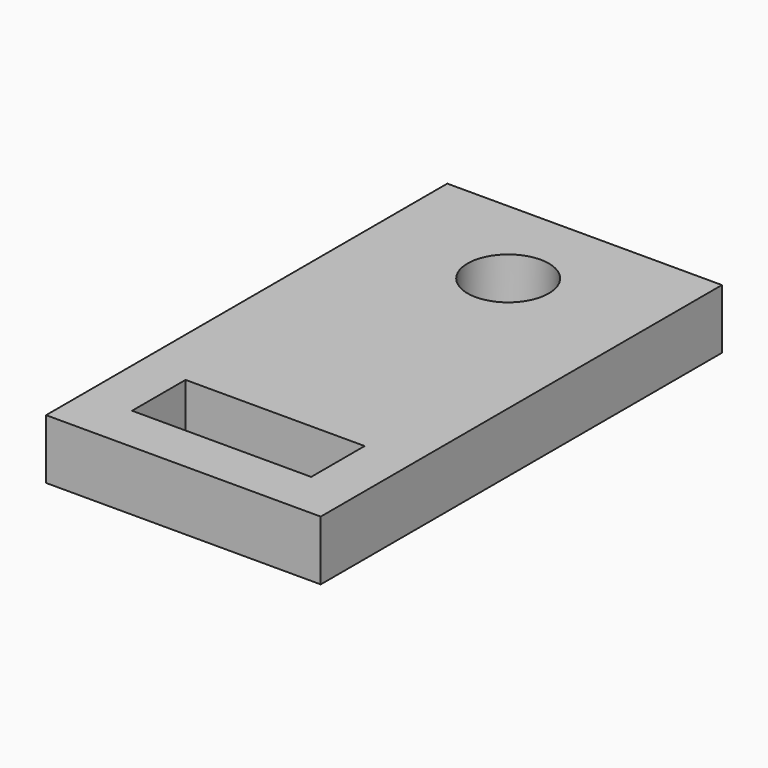
from build123d import *

# Parameters (mm, degrees)
F0_W     = 9.525
F0_H     = 18.034
F0_R     = 2.159
F1_DEPTH = 3.175


with BuildPart() as f1:
    # F0 (on Top) → F1 (new body)
    with BuildSketch(Plane.XY):
        with Locations((4.7625, -9.017)):
            Rectangle(F0_W, F0_H)
        with Locations((4.7625, -2.54)):
            Circle(F0_R, mode=Mode.SUBTRACT)
        Polygon((0, -18.034), (0, 0), (-2.54, 0), (-2.54, -21.59), (0, -21.59), align=None)
        Polygon((12.065, 0), (9.525, 0), (9.525, -18.034), (9.525, -21.59), (12.065, -21.59), align=None)
        Polygon((-2.54, 0), (0, 0), (9.525, 0), (12.065, 0), (12.065, 2.54), (-2.54, 2.54), align=None)
        Polygon((9.525, -21.59), (0, -21.59), (-2.54, -21.59), (-2.54, -24.13), (12.065, -24.13), (12.065, -21.59), align=None)
    extrude(amount=F1_DEPTH)


solid = f1.part
